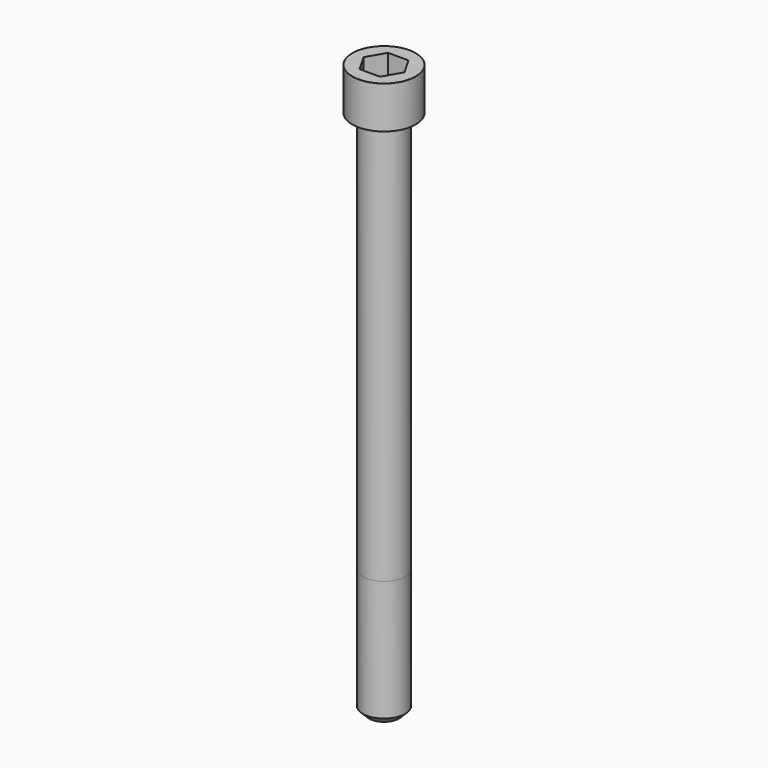
from build123d import *

# Parameters (mm, degrees)
POCKET_DEPTH = 10.07


with BuildPart() as part:
    # Sketch → Revolve (revolve)
    with BuildSketch(Plane.YZ):
        with BuildLine():
            Line((5.999, 0), (9, 0))
            Line((9, 0), (9, 11.97229))
            ThreePointArc((9, 11.97229), (8.991884, 11.991884), (8.97229, 12))
            Line((8.97229, 12), (0, 12))
            Line((0, -150), (0, 12))
            Line((4.25, -150), (0, -150))
            Line((6, -148.25), (4.25, -150))
            Line((6, -114), (6, -148.25))
            Line((5.999, 0), (6, -114))
        make_face()
    revolve(axis=Axis((0, 0, 0), (0, 0, 1)))

    # Sketch001 → Pocket (cut)
    with BuildSketch(Plane.XY.offset(12)):
        Polygon((5.813917, 0), (2.906959, 5.035), (-2.906959, 5.035), (-5.813917, 0), (-2.906959, -5.035), (2.906959, -5.035), align=None)
    extrude(amount=-POCKET_DEPTH, mode=Mode.SUBTRACT)


solid = part.part
